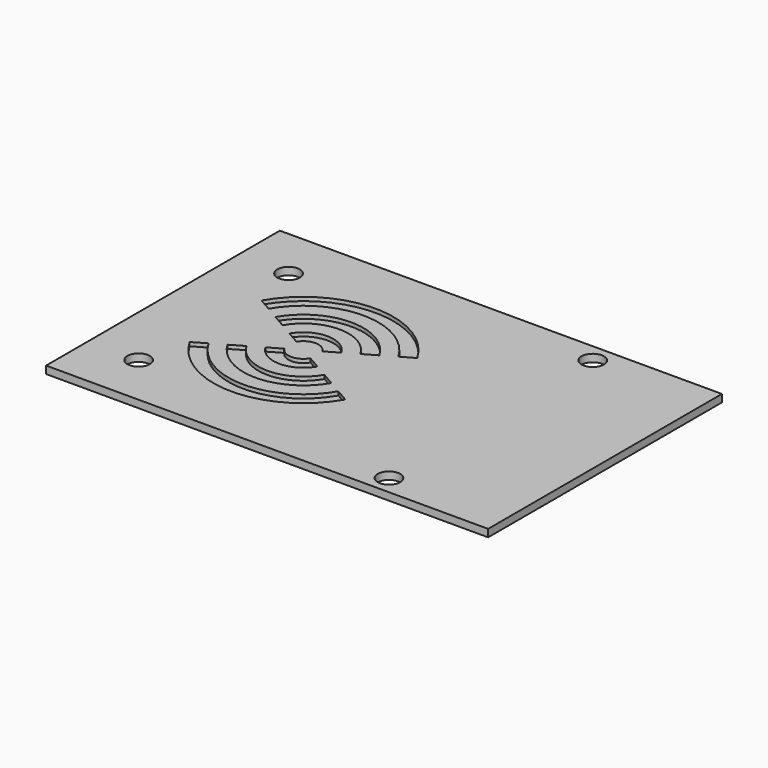
from build123d import *

# Parameters (mm, degrees)
CYLINDER011_W               = 6
CYLINDER011_H               = 10
CYLINDER011_ANGLE           = 120
CYLINDER011_PLACEMENT_ANGLE = 30
CYLINDER010_W               = 8
CYLINDER010_H               = 10
CYLINDER010_ANGLE           = 120
CYLINDER010_PLACEMENT_ANGLE = 30
CYLINDER009_W               = 2
CYLINDER009_H               = 10
CYLINDER009_ANGLE           = 120
CYLINDER009_PLACEMENT_ANGLE = 30
CYLINDER008_W               = 4
CYLINDER008_H               = 10
CYLINDER008_ANGLE           = 120
CYLINDER008_PLACEMENT_ANGLE = 30
CYLINDER013_W               = 10
CYLINDER013_H               = 10
CYLINDER013_ANGLE           = 120
CYLINDER013_PLACEMENT_ANGLE = 30
CYLINDER012_W               = 12
CYLINDER012_H               = 10
CYLINDER012_ANGLE           = 120
CYLINDER012_PLACEMENT_ANGLE = 30
SKETCH003_W                 = 59
SKETCH003_H                 = 39
SKETCH003_R                 = 1.5
EXTRUDE002_DEPTH            = 1


with BuildPart() as cilindro003:
    # Cylinder011 → Cylinder011 (revolve)
    with BuildSketch(Plane.XZ):
        with Locations((3, 5)):
            Rectangle(CYLINDER011_W, CYLINDER011_H)
    revolve(axis=Axis((0, 0, 0), (0, 0, 1)), revolution_arc=CYLINDER011_ANGLE)


with BuildPart() as cilindro003_1:
    # Cylinder011 placement: moved
    add(cilindro003.part.moved(Location((-30.75, -30, 0))).rotate(Axis((-30.75, -30, 0), (0, 0, 1)), CYLINDER011_PLACEMENT_ANGLE))


with BuildPart() as obj1:
    # Cylinder010 → Cylinder010 (revolve)
    with BuildSketch(Plane.XZ):
        with Locations((4, 5)):
            Rectangle(CYLINDER010_W, CYLINDER010_H)
    revolve(axis=Axis((0, 0, 0), (0, 0, 1)), revolution_arc=CYLINDER010_ANGLE)


with BuildPart() as obj1_1:
    # Cylinder010 placement: moved
    add(obj1.part.moved(Location((-30.75, -30, 0))).rotate(Axis((-30.75, -30, 0), (0, 0, 1)), CYLINDER010_PLACEMENT_ANGLE))

    # Cut001: cut Cilindro003
    add(cilindro003_1.part, mode=Mode.SUBTRACT)


with BuildPart() as cilindro001:
    # Cylinder009 → Cylinder009 (revolve)
    with BuildSketch(Plane.XZ):
        with Locations((1, 5)):
            Rectangle(CYLINDER009_W, CYLINDER009_H)
    revolve(axis=Axis((0, 0, 0), (0, 0, 1)), revolution_arc=CYLINDER009_ANGLE)


with BuildPart() as cilindro001_1:
    # Cylinder009 placement: moved
    add(cilindro001.part.moved(Location((-30.75, -30, 0))).rotate(Axis((-30.75, -30, 0), (0, 0, 1)), CYLINDER009_PLACEMENT_ANGLE))


with BuildPart() as obj2:
    # Cylinder008 → Cylinder008 (revolve)
    with BuildSketch(Plane.XZ):
        with Locations((2, 5)):
            Rectangle(CYLINDER008_W, CYLINDER008_H)
    revolve(axis=Axis((0, 0, 0), (0, 0, 1)), revolution_arc=CYLINDER008_ANGLE)


with BuildPart() as obj2_1:
    # Cylinder008 placement: moved
    add(obj2.part.moved(Location((-30.75, -30, 0))).rotate(Axis((-30.75, -30, 0), (0, 0, 1)), CYLINDER008_PLACEMENT_ANGLE))

    # Cut: cut Cilindro001
    add(cilindro001_1.part, mode=Mode.SUBTRACT)


with BuildPart() as cilindro005:
    # Cylinder013 → Cylinder013 (revolve)
    with BuildSketch(Plane.XZ):
        with Locations((5, 5)):
            Rectangle(CYLINDER013_W, CYLINDER013_H)
    revolve(axis=Axis((0, 0, 0), (0, 0, 1)), revolution_arc=CYLINDER013_ANGLE)


with BuildPart() as cilindro005_1:
    # Cylinder013 placement: moved
    add(cilindro005.part.moved(Location((-30.75, -30, 0))).rotate(Axis((-30.75, -30, 0), (0, 0, 1)), CYLINDER013_PLACEMENT_ANGLE))


with BuildPart() as fusion:
    # Cylinder012 → Cylinder012 (revolve)
    with BuildSketch(Plane.XZ):
        with Locations((6, 5)):
            Rectangle(CYLINDER012_W, CYLINDER012_H)
    revolve(axis=Axis((0, 0, 0), (0, 0, 1)), revolution_arc=CYLINDER012_ANGLE)


with BuildPart() as fusion_1:
    # Cylinder012 placement: moved
    add(fusion.part.moved(Location((-30.75, -30, 0))).rotate(Axis((-30.75, -30, 0), (0, 0, 1)), CYLINDER012_PLACEMENT_ANGLE))

    # Cut002: cut Cilindro005
    add(cilindro005_1.part, mode=Mode.SUBTRACT)

    # Fusion: union obj1, obj2
    add(obj1_1.part)
    add(obj2_1.part)


with BuildPart() as fusion_2:
    # Fusion placement: moved
    add(fusion_1.part.moved(Location((0, 0, -6))))


with BuildPart() as obj3:
    # Part__Mirroring: instance of Fusion
    add(fusion_2.part.mirror(Plane(origin=(0, 0, 0), x_dir=(1, 0, 0), z_dir=(0, 1, 0))))


with BuildPart() as obj3_1:
    # Part__Mirroring placement: moved
    add(obj3.part.moved(Location((0, -60, 0))))

    # Fusion006: union Fusion
    add(fusion_2.part)


with BuildPart() as obj3_2:
    # Clone placement: moved
    add(obj3_1.part.moved(Location((0, 0, 9.5))))


with BuildPart() as pcb_rfid_con_logo_wifi:
    # Sketch003 → Extrude002 (new body)
    with BuildSketch(Plane.XY):
        with Locations((-20, -29.995631)):
            Rectangle(SKETCH003_W, SKETCH003_H)
        with Locations((-5.744241, -12.995631)):
            Circle(SKETCH003_R, mode=Mode.SUBTRACT)
        with Locations((-42.75, -17.482117)):
            Circle(SKETCH003_R, mode=Mode.SUBTRACT)
        with Locations((-42.75, -42.495631)):
            Circle(SKETCH003_R, mode=Mode.SUBTRACT)
        with Locations((-5.74, -46.995631)):
            Circle(SKETCH003_R, mode=Mode.SUBTRACT)
    extrude(amount=EXTRUDE002_DEPTH)


with BuildPart() as pcb_rfid_con_logo_wifi_1:
    # Extrude002 placement: moved
    add(pcb_rfid_con_logo_wifi.part.moved(Location((0, 0, 3))))

    # Cut011: cut obj3
    add(obj3_2.part, mode=Mode.SUBTRACT)


solid = pcb_rfid_con_logo_wifi_1.part
